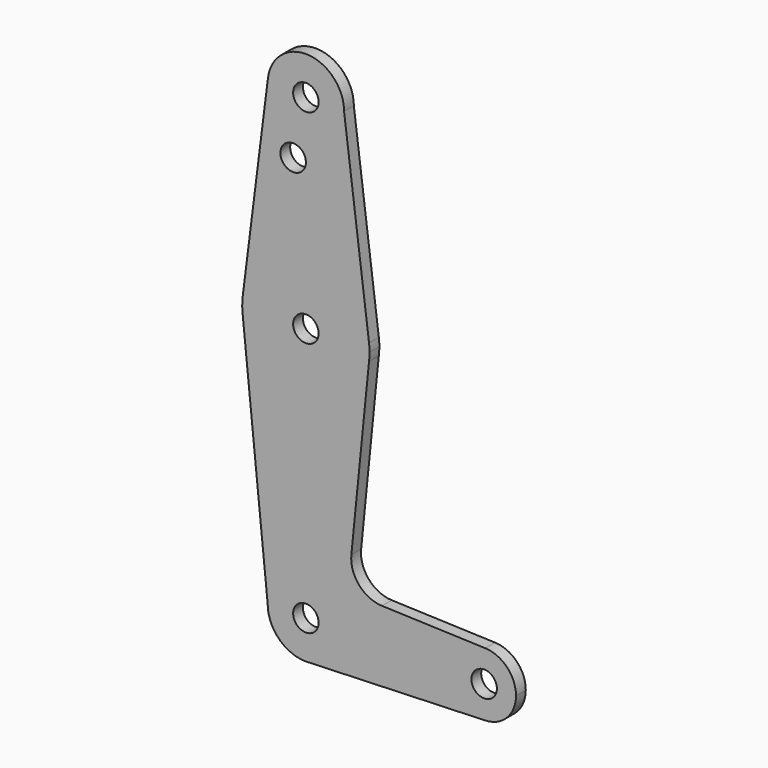
from build123d import *

# Parameters (mm, degrees)
F0_R     = 3.175
F1_DEPTH = 3.048


with BuildPart() as f1:
    # F0 (on Front) → F1 (new body)
    with BuildSketch(Plane.XZ):
        with BuildLine():
            ThreePointArc((-9.450293, 115.490625), (-0.596483, 104.793695), (9.525, 114.3))
            ThreePointArc((9.525, 114.3), (0.596483, 123.806305), (-9.450293, 115.490625))
        make_face()
        with Locations((0, 114.3)):
            Circle(F0_R, mode=Mode.SUBTRACT)
        with BuildLine():
            Line((15.747457, 65.508289), (9.525, 114.3))
            ThreePointArc((9.525, 114.3), (-0.596483, 104.793695), (-9.450293, 115.490625))
            Line((-9.450293, 115.490625), (-15.750488, 65.484375))
            ThreePointArc((-15.750488, 65.484375), (-0.012053, 79.374995), (15.747457, 65.508289))
        make_face()
        with Locations((-3.175, 100.0252)):
            Circle(F0_R, mode=Mode.SUBTRACT)
        with BuildLine():
            ThreePointArc((15.875, 63.5), (15.843082, 64.506168), (15.747457, 65.508289))
            ThreePointArc((15.747457, 65.508289), (-0.012053, 79.374995), (-15.750488, 65.484375))
            ThreePointArc((-15.750488, 65.484375), (-15.873819, 63.693615), (-15.794203, 61.90038))
            ThreePointArc((-15.794203, 61.90038), (-0.205667, 47.626332), (15.747457, 61.491711))
            ThreePointArc((15.747457, 61.491711), (15.843082, 62.493832), (15.875, 63.5))
        make_face()
        with Locations((0, 63.5)):
            Circle(F0_R, mode=Mode.SUBTRACT)
        with BuildLine():
            ThreePointArc((15.747457, 61.491711), (-0.205667, 47.626332), (-15.794203, 61.90038))
            Line((-15.794203, 61.90038), (-9.525, 0))
            ThreePointArc((-9.525, 0), (0, 9.525), (9.525, 0))
            ThreePointArc((9.525, 0), (6.970557, -6.491299), (0.677344, -9.500886))
            Line((0.677344, -9.500886), (44.732405, -7.932475))
            ThreePointArc((44.732405, -7.932475), (36.5125, 0.000539), (44.733482, 7.932436))
            Line((44.733482, 7.932436), (18.96592, 8.853294))
            ThreePointArc((18.96592, 8.853294), (13.259755, 11.57115), (11.339435, 17.59273))
            Line((11.339435, 17.59273), (15.747457, 61.491711))
        make_face()
        with BuildLine():
            ThreePointArc((9.525, 0), (0, 9.525), (-9.525, 0))
            ThreePointArc((-9.525, 0), (-6.735192, -6.735192), (0, -9.525))
            Line((0, -9.525), (0.677344, -9.500886))
            ThreePointArc((0.677344, -9.500886), (6.970557, -6.491299), (9.525, 0))
        make_face()
        Circle(F0_R, mode=Mode.SUBTRACT)
        with BuildLine():
            Line((0.677344, -9.500886), (0, -9.525))
            ThreePointArc((0, -9.525), (0.338886, -9.51897), (0.677344, -9.500886))
        make_face()
        with BuildLine():
            ThreePointArc((52.3875, 0), (50.162007, 5.511523), (44.733482, 7.932436))
            ThreePointArc((44.733482, 7.932436), (36.5125, 0.000539), (44.732405, -7.932475))
            ThreePointArc((44.732405, -7.932475), (50.161633, -5.51191), (52.3875, 0))
        make_face()
        with Locations((44.45, 0)):
            Circle(F0_R, mode=Mode.SUBTRACT)
    extrude(amount=F1_DEPTH)


solid = f1.part
